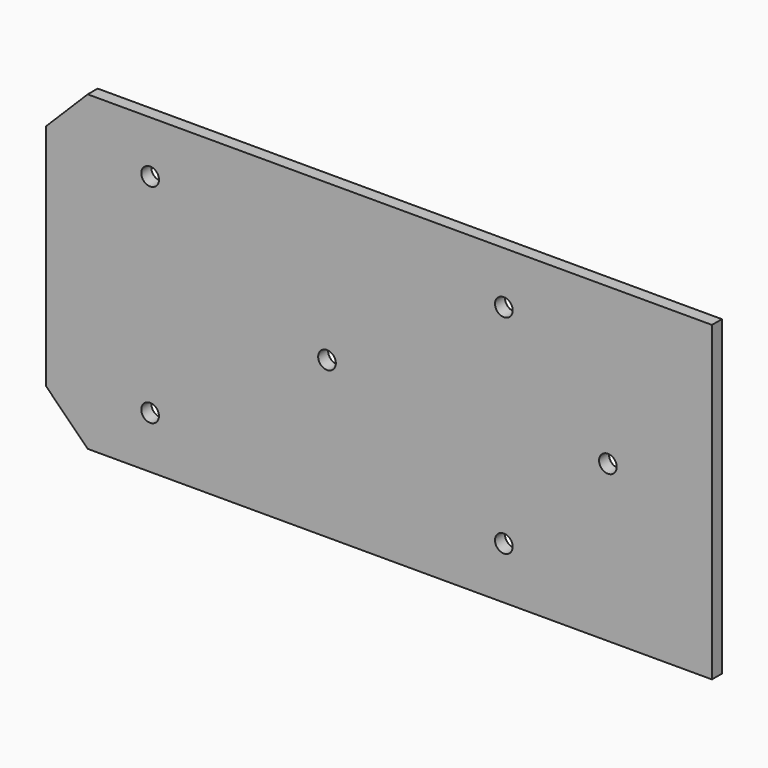
from build123d import *

# Parameters (mm, degrees)
F0_W     = 320
F0_H     = 150
F1_DEPTH = 6
F2_R     = 4.25
F3_DEPTH = 25
F4_SIZE  = 20


with BuildPart() as f1:
    # F0 (on Front) → F1 (new body)
    with BuildSketch(Plane.XZ):
        Rectangle(F0_W, F0_H)
    extrude(amount=F1_DEPTH)

    # F2 (on face) → F3 (cut)
    with BuildSketch(Plane(origin=(0, 0, 0), x_dir=(-1, 0, 0), z_dir=(0, 1, 0))):
        with Locations((-60, 50)):
            Circle(F2_R)
        with Locations((110, 50)):
            Circle(F2_R)
        with BuildLine():
            ThreePointArc((20.75, 0), (25, -4.25), (29.25, 0))
            Line((29.25, 0), (20.75, 0))
        make_face()
        with BuildLine():
            Line((20.75, 0), (29.25, 0))
            ThreePointArc((29.25, 0), (25, 4.25), (20.75, 0))
        make_face()
        with BuildLine():
            ThreePointArc((-114.25, 0), (-110, -4.25), (-105.75, 0))
            Line((-105.75, 0), (-114.25, 0))
        make_face()
        with BuildLine():
            Line((-114.25, 0), (-105.75, 0))
            ThreePointArc((-105.75, 0), (-110, 4.25), (-114.25, 0))
        make_face()
        with Locations((110, -50)):
            Circle(F2_R)
        with Locations((-60, -50)):
            Circle(F2_R)
    extrude(amount=-F3_DEPTH, mode=Mode.SUBTRACT)

    # F4
    f4_edges = [f1.edges().sort_by_distance(p)[0] for p in [
        (-160, -3, 75),
        (-160, -3, -75),
    ]]
    chamfer(f4_edges, length=F4_SIZE)


solid = f1.part
